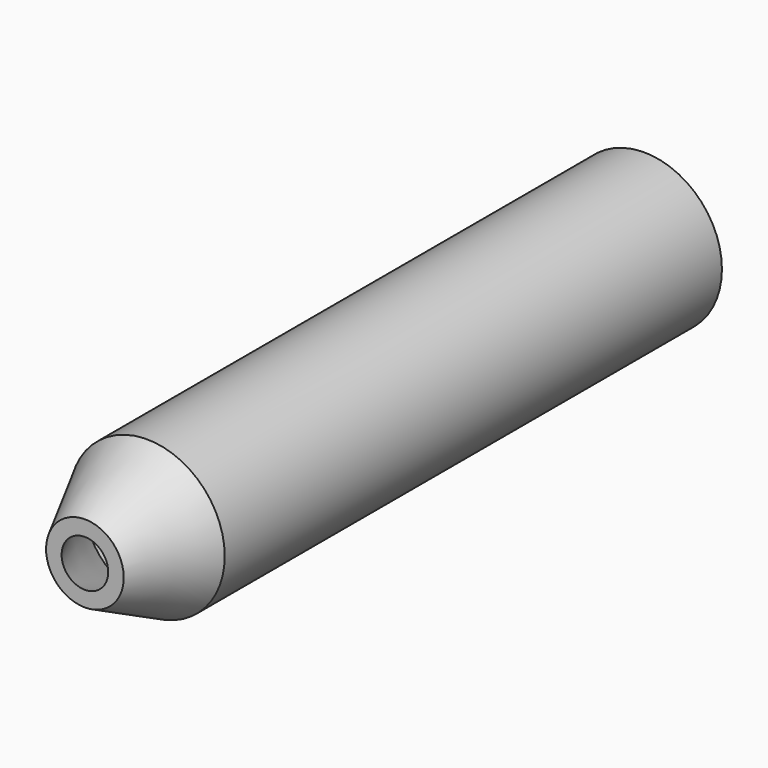
from build123d import *

# Parameters (mm, degrees)
F0_R     = 12.7
F0_R_2   = 10.16
F1_DEPTH = 101.6


with BuildPart() as f1:
    # F0 (on Front) → F1 (new body)
    with BuildSketch(Plane.XZ):
        Circle(F0_R)
        Circle(F0_R_2, mode=Mode.SUBTRACT)
    extrude(amount=F1_DEPTH)

    # F6 (on Right) → F7 (revolve)
    with BuildSketch(Plane.YZ):
        Polygon((-114.3, -3.81), (-114.3, -6.35), (-101.6, -12.7), (-101.6, -10.16), align=None)
    revolve(axis=Axis((0, -111.125, 0), (0, 1, 0)))


solid = f1.part
